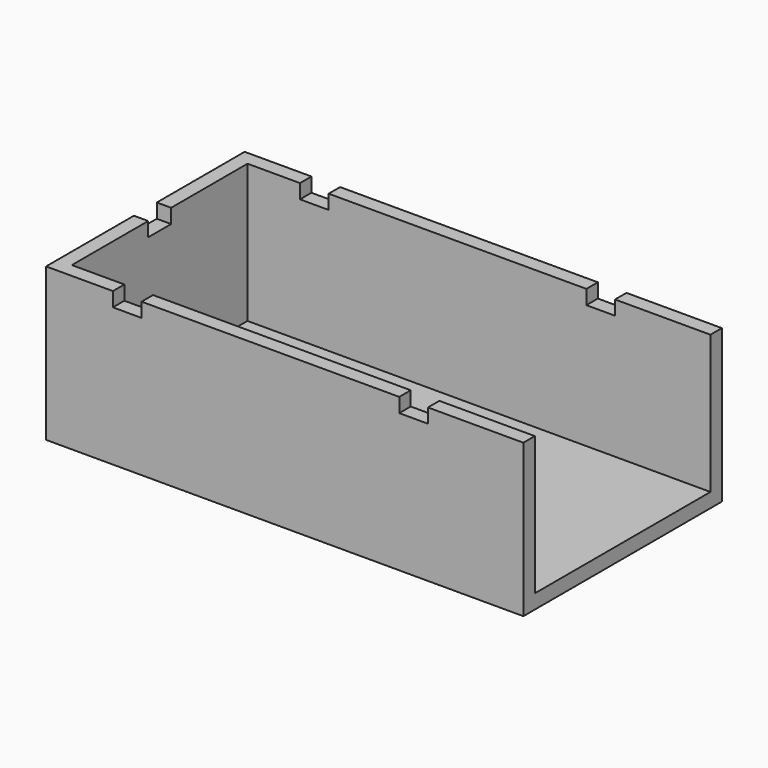
from build123d import *

# Parameters (mm, degrees)
F0_W     = 100
F0_H     = 52
F1_DEPTH = 32
F2_W     = 97
F2_H     = 46
F3_DEPTH = 29
F4_W     = 6
F4_H     = 3
F5_DEPTH = 52.001
F6_W     = 6
F6_H     = 3
F7_DEPTH = 52.001
F8_W     = 6
F8_H     = 3
F9_DEPTH = 100.001


with BuildPart() as f1:
    # F0 (on Top) → F1 (new body)
    with BuildSketch(Plane.XY):
        Rectangle(F0_W, F0_H)
    extrude(amount=F1_DEPTH)

    # F2 (on face) → F3 (cut)
    with BuildSketch(Plane.XY.offset(32)):
        with Locations((1.5, 0)):
            Rectangle(F2_W, F2_H)
    extrude(amount=-F3_DEPTH, mode=Mode.SUBTRACT)

    # F4 (on face) → F5 (cut, through all)
    with BuildSketch(Plane.XZ.offset(26)):
        with Locations((-33, 30.5)):
            Rectangle(F4_W, F4_H)
    extrude(amount=-F5_DEPTH, mode=Mode.SUBTRACT)

    # F6 (on face) → F7 (cut, through all)
    with BuildSketch(Plane.XZ.offset(26)):
        with Locations((27, 30.5)):
            Rectangle(F6_W, F6_H)
    extrude(amount=-F7_DEPTH, mode=Mode.SUBTRACT)

    # F8 (on face) → F9 (cut, through all)
    with BuildSketch(Plane(origin=(-50, 0, 0), x_dir=(0, -1, 0), z_dir=(-1, 0, 0))):
        with Locations((0, 30.5)):
            Rectangle(F8_W, F8_H)
    extrude(amount=-F9_DEPTH, mode=Mode.SUBTRACT)


solid = f1.part
